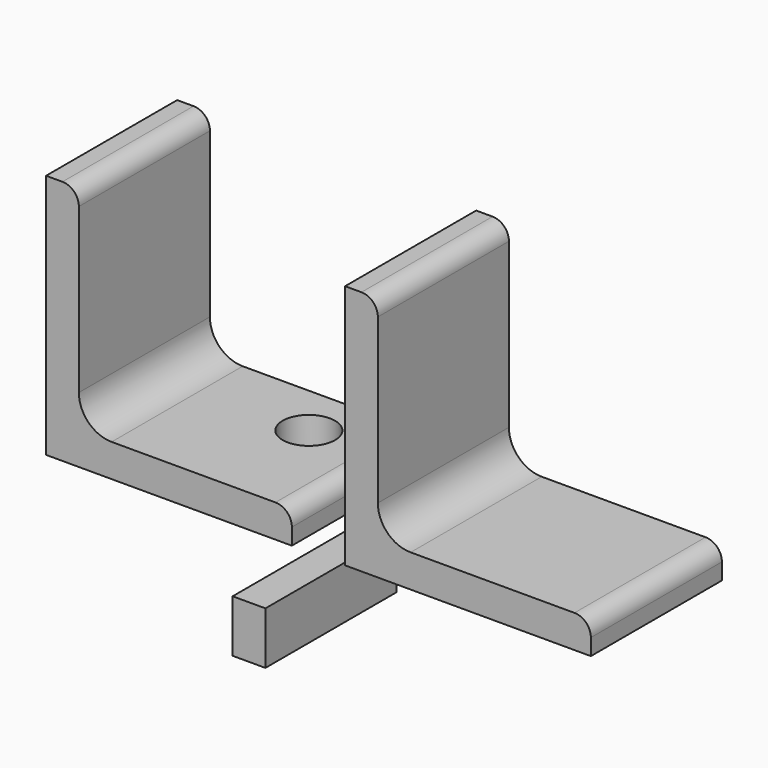
from build123d import *

# Parameters (mm, degrees)
F2_DEPTH = 50
F3_R     = 8
F4_DEPTH = 10
F5_W     = 10
F5_H     = 16
F6_DEPTH = 50


with BuildPart() as f2:
    # F0 (on Front) + F1 (on Front) → F2 (new body)
    with BuildSketch(Plane.XZ):
        with BuildLine():
            Line((0, 75), (0, 0))
            Line((0, 0), (75, 0))
            Line((75, 0), (75, 5))
            ThreePointArc((75, 5), (73.535534, 8.535534), (70, 10))
            Line((70, 10), (20, 10))
            ThreePointArc((20, 10), (12.928932, 12.928932), (10, 20))
            Line((10, 20), (10, 70))
            ThreePointArc((10, 70), (8.535534, 73.535534), (5, 75))
            Line((5, 75), (0, 75))
        make_face()
    with BuildSketch(Plane.XZ):
        with BuildLine():
            Line((-91.244273, 75), (-91.244273, 0))
            Line((-91.244273, 0), (-16.244273, 0))
            Line((-16.244273, 0), (-16.244273, 5))
            ThreePointArc((-16.244273, 5), (-17.708739, 8.535534), (-21.244273, 10))
            Line((-21.244273, 10), (-71.244273, 10))
            ThreePointArc((-71.244273, 10), (-78.315341, 12.928932), (-81.244273, 20))
            Line((-81.244273, 20), (-81.244273, 70))
            ThreePointArc((-81.244273, 70), (-82.708739, 73.535534), (-86.244273, 75))
            Line((-86.244273, 75), (-91.244273, 75))
        make_face()
    extrude(amount=-F2_DEPTH)

    # F3 (on face) → F4 (cut, through all)
    with BuildSketch(Plane(origin=(0, 0, 0), x_dir=(1, 0, 0), z_dir=(0, 0, -1))):
        with Locations((-38.244273, -34)):
            Circle(F3_R)
    extrude(amount=-F4_DEPTH, mode=Mode.SUBTRACT)


with BuildPart() as f6:
    # F5 (on Front) → F6 (new body)
    with BuildSketch(Plane.XZ):
        with Locations((-29.30879, -27.459602)):
            Rectangle(F5_W, F5_H)
    extrude(amount=-F6_DEPTH)


solid = Compound([f2.part, f6.part])
